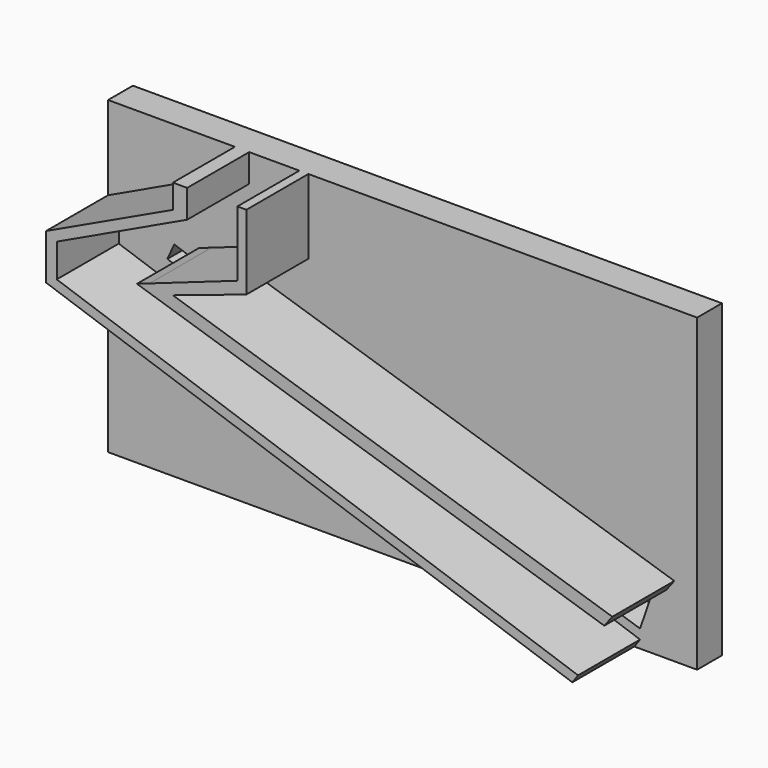
from build123d import *

# Parameters (mm, degrees)
F0_W     = 190
F0_H     = 100
F1_DEPTH = 10
F3_DEPTH = 25
F4_DEPTH = 25


with BuildPart() as f1:
    # F0 (on Front) → F1 (new body)
    with BuildSketch(Plane.XZ):
        Rectangle(F0_W, F0_H)
    extrude(amount=F1_DEPTH)

    # F2 (on face) → F3 (join)
    with BuildSketch(Plane.XZ.offset(10)):
        Polygon((-49.491931, 40.968843), (-49.491931, 50), (-54.094203, 50), (-54.094203, 42.272657), (-95, 22.963328), (-95, 8.291027), (74.74266, -50), (76.602353, -47.408584), (-91.554888, 10.337997), (-91.554888, 21.052278), (-88.564485, 22.468217), align=None)
        Polygon((-30.388942, 50), (-33.300221, 50), (-33.300221, 40.968843), (-33.300221, 28.898658), (-61.637774, 18.919959), (-65.695935, 17.490931), (85.04647, -30.56908), (87.651487, -27.179441), (-54.094203, 18.012218), (-30.388942, 25.933994), align=None)
    extrude(amount=F3_DEPTH)

    # F2 (on face) → F4 (cut)
    with BuildSketch(Plane.XZ.offset(10)):
        Polygon((-57.566985, 10.273552), (-73.658094, 15.96733), (-75.863337, 11.080531), (-59.349135, 5.237044), align=None)
        Polygon((-7.86031, -4.662096), (-34.249816, 3.969805), (-36.453794, -2.258826), (-10.286281, -11.518101), align=None)
        Polygon((36.374753, -18.724323), (12.500672, -10.772827), (9.540769, -20.056697), (33.513222, -27.699645), align=None)
        Polygon((80.424149, -33.161463), (55.549646, -24.682663), (51.817555, -36.388537), (76.602353, -44.290479), align=None)
    extrude(amount=-F4_DEPTH, mode=Mode.SUBTRACT)


solid = f1.part
